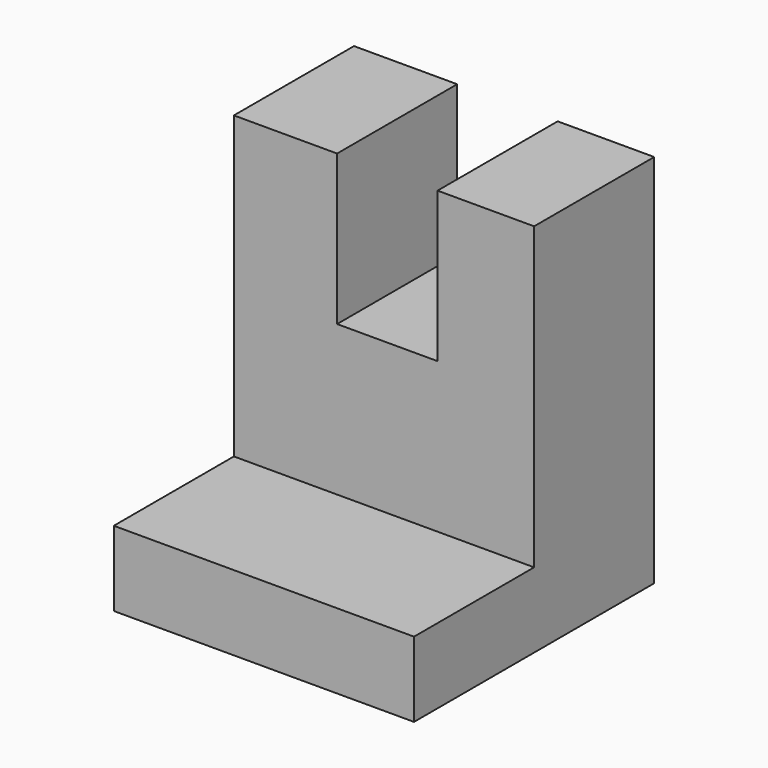
from build123d import *

# Parameters (mm, degrees)
F1_DEPTH = 25.4
F2_W     = 8.498132
F2_H     = 12.7
F3_DEPTH = 12.7


with BuildPart() as f1:
    # F0 (on Right) → F1 (new body)
    with BuildSketch(Plane.YZ):
        Polygon((0, 0), (25.4, 0), (25.4, 31.75), (12.7, 31.75), (12.7, 6.35), (0, 6.35), align=None)
    extrude(amount=F1_DEPTH)

    # F2 (on face) → F3 (cut, symmetric)
    with BuildSketch(Plane.XY.offset(31.75)):
        with Locations((12.980955, 19.05)):
            Rectangle(F2_W, F2_H)
    extrude(amount=F3_DEPTH, both=True, mode=Mode.SUBTRACT)


solid = f1.part
